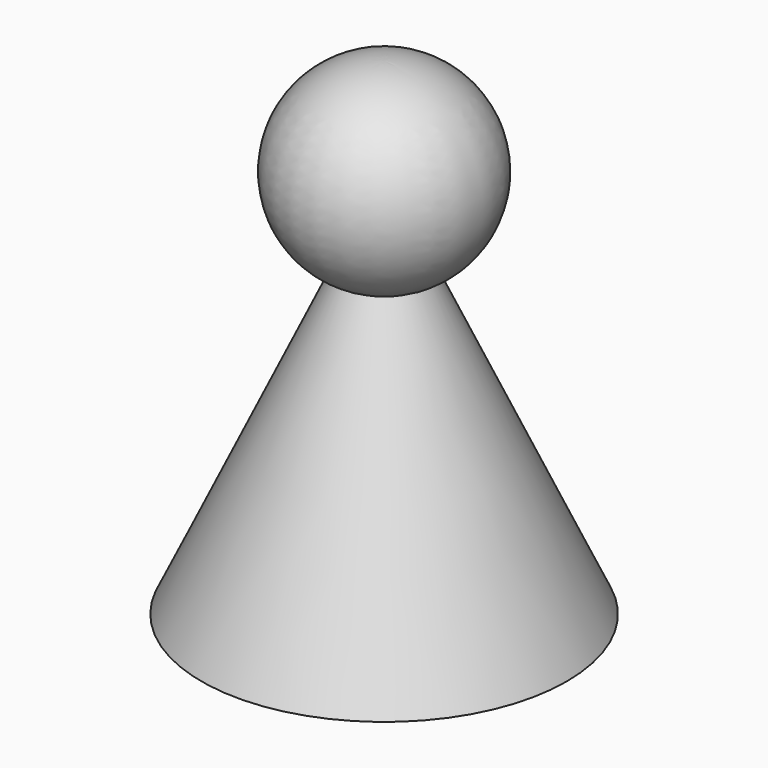
from build123d import *


with BuildPart() as part:
    # Sketch → Revolve (revolve)
    with BuildSketch(Plane.XZ):
        with BuildLine():
            Line((0, 0), (0, 40))
            ThreePointArc((3.460822, 24.745848), (7.89059, 33.770529), (0, 40))
            Line((15, 0), (3.460822, 24.745848))
            Line((0, 0), (15, 0))
        make_face()
    revolve(axis=Axis((0, 0, 0), (0, 0, 1)))


solid = part.part
